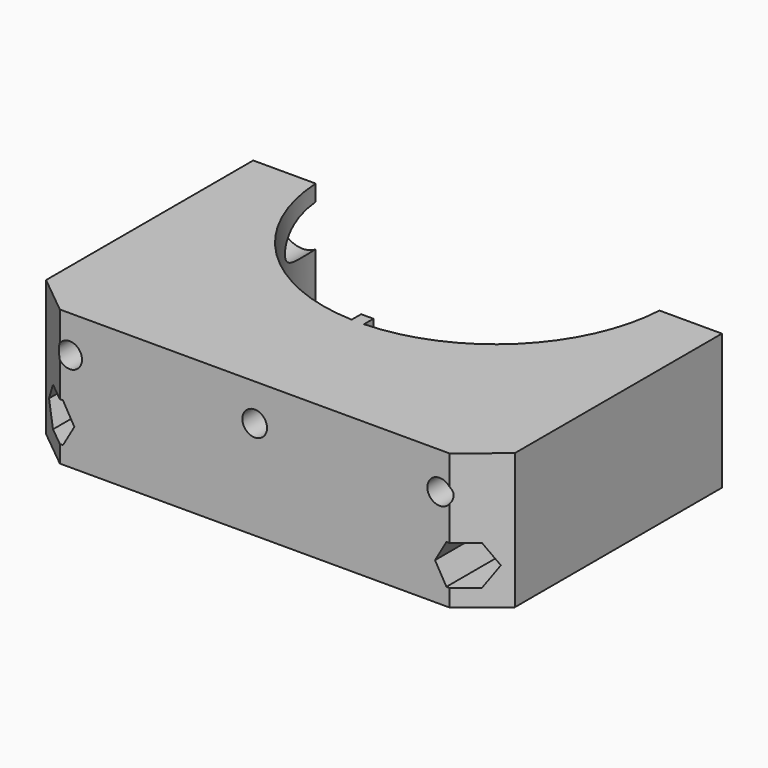
from build123d import *

# Parameters (mm, degrees)
F1_DEPTH  = 34.925
F2_R      = 2.6162
F3_DEPTH  = 74.931
F4_R      = 2.6162
F5_DEPTH  = 74.931
F6_R      = 3.175
F7_DEPTH  = 74.931
F8_R      = 6.35
F9_DEPTH  = 49.53
F11_DEPTH = 22.86
F13_DEPTH = 25.4


with BuildPart() as f1:
    # F0 (on Top) → F1 (new body)
    with BuildSketch(Plane.XY):
        with BuildLine():
            ThreePointArc((-1.5875, -44.294561), (-31.002155, -31.676406), (-44.250161, -2.54))
            Line((-44.250161, -2.54), (-60.325, -2.54))
            Line((-60.325, -2.54), (-60.325, -69.1896))
            Line((-60.325, -69.1896), (-50.165, -77.47))
            Line((-50.165, -77.47), (50.165, -77.47))
            Line((50.165, -77.47), (60.325, -69.1896))
            Line((60.325, -69.1896), (60.325, -2.54))
            Line((60.325, -2.54), (44.250161, -2.54))
            ThreePointArc((44.250161, -2.54), (31.002155, -31.676406), (1.5875, -44.294561))
            Line((1.5875, -44.294561), (1.5875, -41.246561))
            Line((1.5875, -41.246561), (-1.5875, -41.246561))
            Line((-1.5875, -41.246561), (-1.5875, -44.294561))
        make_face()
    extrude(amount=F1_DEPTH)

    # F2 (on face) → F3 (cut, through all)
    with BuildSketch(Plane(origin=(0, -2.54, 0), x_dir=(-1, 0, 0), z_dir=(0, 1, 0))):
        with Locations((-52.28758, 9.525)):
            Circle(F2_R)
    extrude(amount=-F3_DEPTH, mode=Mode.SUBTRACT)

    # F4 (on face) → F5 (cut, through all)
    with BuildSketch(Plane(origin=(0, -2.54, 0), x_dir=(-1, 0, 0), z_dir=(0, 1, 0))):
        with Locations((52.28758, 9.525)):
            Circle(F4_R)
    extrude(amount=-F5_DEPTH, mode=Mode.SUBTRACT)

    # F6 (on face) → F7 (cut, through all)
    with BuildSketch(Plane.XZ.offset(77.47)):
        with Locations((-47.625, 25.4)):
            Circle(F6_R)
        with Locations((47.625, 25.4)):
            Circle(F6_R)
        with Locations((0, 25.4)):
            Circle(F6_R)
    extrude(amount=-F7_DEPTH, mode=Mode.SUBTRACT)

    # F8 (on face) → F9 (cut)
    with BuildSketch(Plane(origin=(0, -2.54, 0), x_dir=(-1, 0, 0), z_dir=(0, 1, 0))):
        with Locations((-47.625, 25.4)):
            Circle(F8_R)
        with Locations((0, 25.4)):
            Circle(F8_R)
        with Locations((47.625, 25.4)):
            Circle(F8_R)
    extrude(amount=-F9_DEPTH, mode=Mode.SUBTRACT)

    # F10 (on face) → F11 (cut)
    with BuildSketch(Plane.XZ.offset(77.47)):
        Polygon((-49.354641, 4.445), (-46.421702, 9.525), (-49.354641, 14.605), (-55.22052, 14.605), (-58.153459, 9.525), (-55.22052, 4.445), align=None)
        Polygon((49.354641, 14.605), (46.421702, 9.525), (49.354641, 4.445), (55.22052, 4.445), (58.153459, 9.525), (55.22052, 14.605), align=None)
    extrude(amount=-F11_DEPTH, mode=Mode.SUBTRACT)

    # F12 (on face) → F13 (cut)
    with BuildSketch(Plane(origin=(0, 0, 0), x_dir=(1, 0, 0), z_dir=(0, 0, -1))):
        with BuildLine():
            Line((1.5875, 41.246561), (1.5875, 44.294561))
            ThreePointArc((1.5875, 44.294561), (0, 44.323), (-1.5875, 44.294561))
            Line((-1.5875, 44.294561), (-1.5875, 41.246561))
            Line((-1.5875, 41.246561), (1.5875, 41.246561))
        make_face()
    extrude(amount=-F13_DEPTH, mode=Mode.SUBTRACT)


solid = f1.part
